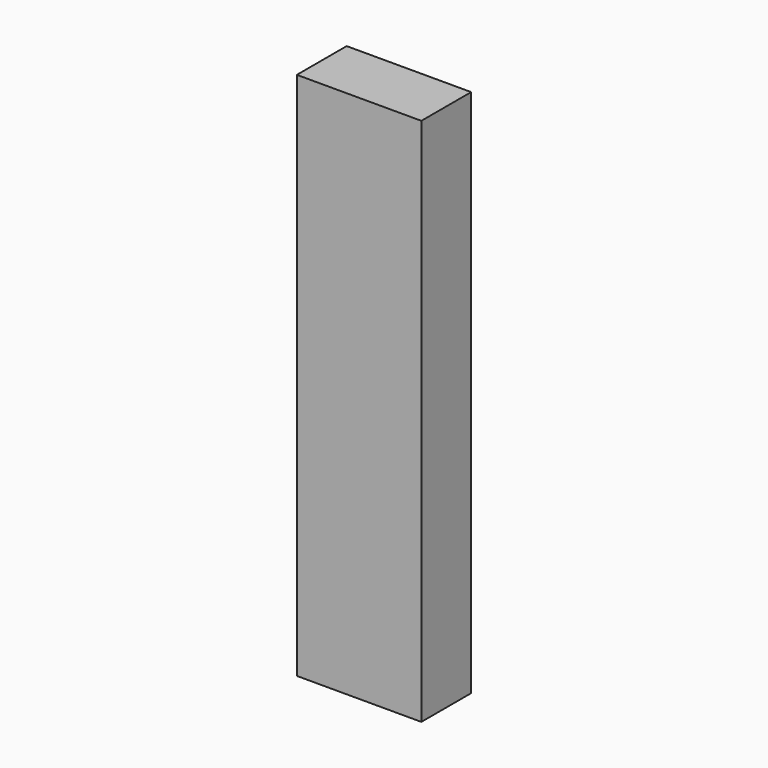
from build123d import *

# Parameters (mm, degrees)
F0_W     = 127
F0_H     = 539.75
F1_DEPTH = 12.7
F2_W     = 12.7
F2_H     = 514.35
F2_H_2   = 12.7
F2_W_2   = 16.901414
F2_W_3   = 84.698586
F2_W_4   = 101.6
F3_DEPTH = 50.8


with BuildPart() as f1:
    # F0 (on Front) → F1 (new body)
    with BuildSketch(Plane.XZ):
        with Locations((27.642982, 223.3254)):
            Rectangle(F0_W, F0_H)
    extrude(amount=F1_DEPTH)

    # F2 (on face) → F3 (join)
    with BuildSketch(Plane(origin=(0, 0, 0), x_dir=(-1, 0, 0), z_dir=(0, 1, 0))):
        with Locations((-84.792982, 223.3254)):
            Rectangle(F2_W, F2_H)
        with Locations((-84.792982, 486.8504)):
            Rectangle(F2_W, F2_H_2)
        with Locations((-69.992275, 486.8504)):
            Rectangle(F2_W_2, F2_H_2)
        with Locations((-19.192275, 486.8504)):
            Rectangle(F2_W_3, F2_H_2)
        with Locations((29.507018, 486.8504)):
            Rectangle(F2_W, F2_H_2)
        with Locations((29.507018, 223.3254)):
            Rectangle(F2_W, F2_H)
        with Locations((29.507018, -40.1996)):
            Rectangle(F2_W, F2_H_2)
        with Locations((-27.642982, -40.1996)):
            Rectangle(F2_W_4, F2_H_2)
        with Locations((-84.792982, -40.1996)):
            Rectangle(F2_W, F2_H_2)
    extrude(amount=F3_DEPTH)


solid = f1.part
